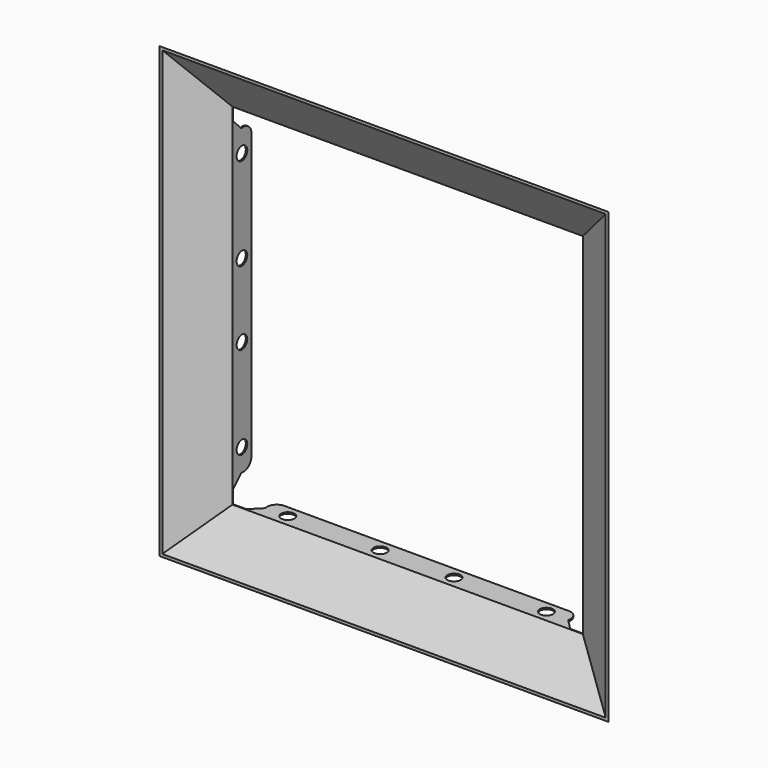
from build123d import *

# Parameters (mm, degrees)
F0_W      = 300
F0_H      = 300
F2_W      = 237
F2_H      = 237
F5_W      = 237
F5_H      = 237
F3_FACE_W = 237
F3_FACE_H = 237
F7_T      = 1
F14_R     = 4.5
F15_DEPTH = 271.3666433207
F16_R     = 4.5
F17_DEPTH = 271.3666433207


with BuildPart() as f3:
    # F0 (on Front) → F3 section 0
    with BuildSketch(Plane.XZ):
        Rectangle(F0_W, F0_H)
    # F2 (on offset) → F3 section 1
    with BuildSketch(Plane.XZ.offset(-20)):
        Rectangle(F2_W, F2_H)
    loft()

    # F5 (on offset) → F6 section 0
    with BuildSketch(Plane.XZ.offset(-36)):
        Rectangle(F5_W, F5_H)
    # F3_face (on face) → F6 section 1
    with BuildSketch(Plane(origin=(0, 20, 0), x_dir=(-1, 0, 0), z_dir=(0, 1, 0))):
        Rectangle(F3_FACE_W, F3_FACE_H)
    loft()

    # F7
    f7_openings = [f3.faces().sort_by_distance(p)[0] for p in [
        (0, 0, 0),
        (0, 36, 0),
    ]]
    offset(amount=F7_T, openings=f7_openings, kind=Kind.INTERSECTION)

    # F8 (on face) → F9 (revolve, cut)
    with BuildSketch(Plane(origin=(-119.5, 0, 0), x_dir=(0, -1, 0), z_dir=(-1, 0, 0))):
        with BuildLine():
            Line((-20.5496148068, 109.5), (-20.5496148068, 119.5))
            Line((-20.5496148068, 119.5), (-36, 119.5))
            Line((-36, 119.5), (-36, 96.9205275363))
            ThreePointArc((-36, 96.9205275363), (-33.0609608371, 101.5771569003), (-27.6206826186, 102.4289321881))
            Line((-27.6206826186, 102.4289321881), (-20.5496148068, 109.5))
        make_face()
    revolve(axis=Axis((-119.5, 28.2748074034, 119.5), (0, 1, 0)), mode=Mode.SUBTRACT)

    # F8 (on face) → F10 (revolve, cut)
    with BuildSketch(Plane(origin=(-119.5, 0, 0), x_dir=(0, -1, 0), z_dir=(-1, 0, 0))):
        with BuildLine():
            Line((-36, -119.5), (-20.5496148068, -119.5))
            Line((-20.5496148068, -119.5), (-20.5496148068, -109.5))
            Line((-20.5496148068, -109.5), (-27.6206826186, -102.4289321881))
            ThreePointArc((-27.6206826186, -102.4289321881), (-33.0609608371, -101.5771569003), (-36, -96.9205275363))
            Line((-36, -96.9205275363), (-36, -119.5))
        make_face()
    revolve(axis=Axis((-119.5, 28.2748074034, -119.5), (0, 1, 0)), mode=Mode.SUBTRACT)

    # F11 (on face) → F12 (revolve, cut)
    with BuildSketch(Plane.YZ.offset(119.5)):
        with BuildLine():
            Line((27.6206826186, -102.4289321881), (20.5496148068, -109.5))
            Line((20.5496148068, -109.5), (20.5496148068, -119.5))
            Line((20.5496148068, -119.5), (36, -119.5))
            Line((36, -119.5), (36, -96.9205275363))
            ThreePointArc((36, -96.9205275363), (33.0609608371, -101.5771569003), (27.6206826186, -102.4289321881))
        make_face()
    revolve(axis=Axis((119.5, 28.2748074034, -119.5), (0, 1, 0)), mode=Mode.SUBTRACT)

    # F11 (on face) → F13 (revolve, cut)
    with BuildSketch(Plane.YZ.offset(119.5)):
        with BuildLine():
            Line((36, 119.5), (20.5496148068, 119.5))
            Line((20.5496148068, 119.5), (20.5496148068, 109.5))
            Line((20.5496148068, 109.5), (27.6206826186, 102.4289321881))
            ThreePointArc((27.6206826186, 102.4289321881), (33.0609608371, 101.5771569003), (36, 96.9205275363))
            Line((36, 96.9205275363), (36, 119.5))
        make_face()
    revolve(axis=Axis((119.5, 28.2748074034, 119.5), (0, 1, 0)), mode=Mode.SUBTRACT)

    # F14 (on face) → F15 (cut, through all)
    with BuildSketch(Plane(origin=(0, 0, -119.5), x_dir=(1, 0, 0), z_dir=(0, 0, -1))):
        with Locations((-25, -28)):
            Circle(F14_R)
        with Locations((25, -28)):
            Circle(F14_R)
        with Locations((-87.5, -28)):
            Circle(F14_R)
        with Locations((87.5, -28)):
            Circle(F14_R)
    extrude(amount=-F15_DEPTH, mode=Mode.SUBTRACT)

    # F16 (on face) → F17 (cut, through all)
    with BuildSketch(Plane(origin=(-119.5, 0, 0), x_dir=(0, -1, 0), z_dir=(-1, 0, 0))):
        with Locations((-28, 25)):
            Circle(F16_R)
        with Locations((-28, 87.5)):
            Circle(F16_R)
        with Locations((-28, -25)):
            Circle(F16_R)
        with Locations((-28, -87.5)):
            Circle(F16_R)
    extrude(amount=-F17_DEPTH, mode=Mode.SUBTRACT)


solid = f3.part
